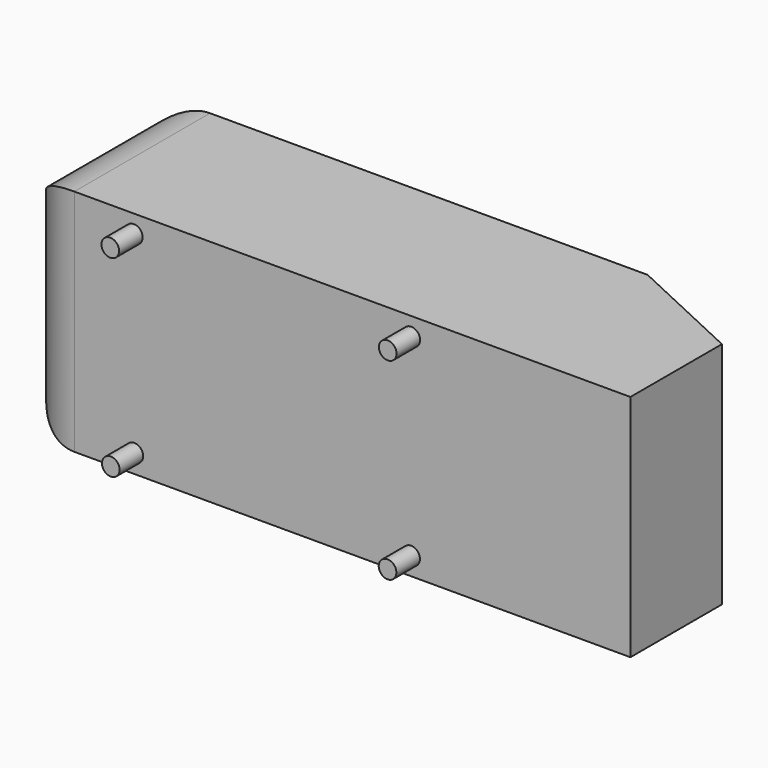
from build123d import *

# Parameters (mm, degrees)
F1_DEPTH = 389
F2_R     = 100
F7_R     = 15
F8_DEPTH = 50
F5_R     = 15
F4_R     = 15
F6_R     = 15
F9_DEPTH = 50


with BuildPart() as f1:
    # F0 (on Top) → F1 (new body)
    with BuildSketch(Plane.XY):
        Polygon((-1044, 288.001959), (-1044, 0), (0, 0), (0, 194.18), (-201.2, 288.001959), align=None)
    extrude(amount=-F1_DEPTH)

    # F2
    f2_edges = [f1.edges().sort_by_distance(p)[0] for p in [
        (-1044, 288.001959, -194.5),
        (-1044, 0, -194.5),
        (-1044, 144.00098, 0),
        (-1044, 144.00098, -389),
    ]]
    fillet(f2_edges, radius=F2_R)

    # F7 (on offset) → F8 (join)
    with BuildSketch(Plane.XZ.offset(50)):
        with Locations((-842.109799, -357.525885)):
            Circle(F7_R)
    extrude(amount=-F8_DEPTH)

    # F5 (on offset) + F4 (on offset) + F6 (on offset) → F9 (join)
    with BuildSketch(Plane.XZ.offset(50)):
        with Locations((-372.279406, -358.30304)):
            Circle(F5_R)
    with BuildSketch(Plane.XZ.offset(50)):
        with Locations((-372, -31)):
            Circle(F4_R)
    with BuildSketch(Plane.XZ.offset(50)):
        with Locations((-843.018532, -30.759659)):
            Circle(F6_R)
    extrude(amount=-F9_DEPTH)


solid = f1.part
